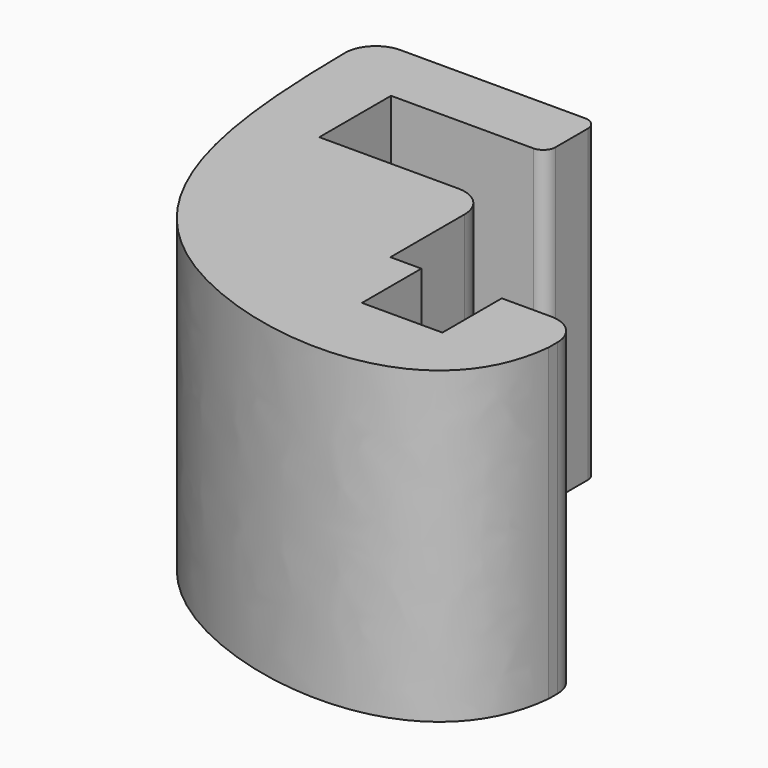
from build123d import *

# Parameters (mm, degrees)
F1_DEPTH = 5


with BuildPart() as f1:
    # F0 (on Top) → F1 (new body)
    with BuildSketch(Plane.XY):
        with BuildLine():
            ThreePointArc((-2.4602462452, -5.7551839226), (-2.6066928546, -5.401630532), (-2.9602462452, -5.2551839226))
            Line((-2.9602462452, -5.2551839226), (-3.7602462452, -5.2551839226))
            Line((-3.7602462452, -5.2551839226), (-3.7602462452, -6.4551839226))
            Line((-3.7602462452, -6.4551839226), (-5.0602462452, -6.4551839226))
            Line((-5.0602462452, -6.4551839226), (-5.0602462452, -5.2551839226))
            Line((-5.0602462452, -5.2551839226), (-5.5602462452, -5.2551839226))
            Line((-5.5602462452, -5.2551839226), (-5.5602462452, -3.7551839226))
            ThreePointArc((-5.5602462452, -3.7551839226), (-5.7066928546, -3.401630532), (-6.0602462452, -3.2551839226))
            Line((-6.0602462452, -3.2551839226), (-8.3102462452, -3.2551839226))
            Line((-8.3102462452, -3.2551839226), (-8.3102462452, -1.8051839226))
            Line((-8.3102462452, -1.8051839226), (-8.3102462452, -0.7551839226))
            Line((-8.3102462452, -0.7551839226), (-8.9974236734, -0.7551839226))
            ThreePointArc((-8.9974236734, -0.7551839226), (-9.3530019854, -0.9036671178), (-9.4973906818, -1.2609276663))
            add(Edge.make_bspline(
                [(-9.4973906818, -1.2609276663), (-9.4710121308, -3.5570616405), (-9.0256832081, -7.729584534), (-2.7097307126, -8.346351926), (-2.4602462452, -5.9359164208)],
                knots=[0.0360608497, 0.0360608497, 0.0360608497, 0.0360608497, 0.5294374799, 1, 1, 1, 1], degree=3))
            Line((-2.4602462452, -5.9359164208), (-2.4602462452, -5.7551839226))
        make_face()
        with BuildLine():
            Line((-6.0102462452, -0.7551839226), (-8.3102462452, -0.7551839226))
            Line((-8.3102462452, -0.7551839226), (-8.3102462452, -1.8051839226))
            Line((-8.3102462452, -1.8051839226), (-6.0102462452, -1.8051839226))
            ThreePointArc((-6.0102462452, -1.8051839226), (-5.868824889, -1.7466052788), (-5.8102462452, -1.6051839226))
            Line((-5.8102462452, -1.6051839226), (-5.8102462452, -0.9551839226))
            ThreePointArc((-5.8102462452, -0.9551839226), (-5.868824889, -0.8137625664), (-6.0102462452, -0.7551839226))
        make_face()
    extrude(amount=F1_DEPTH)


solid = f1.part
